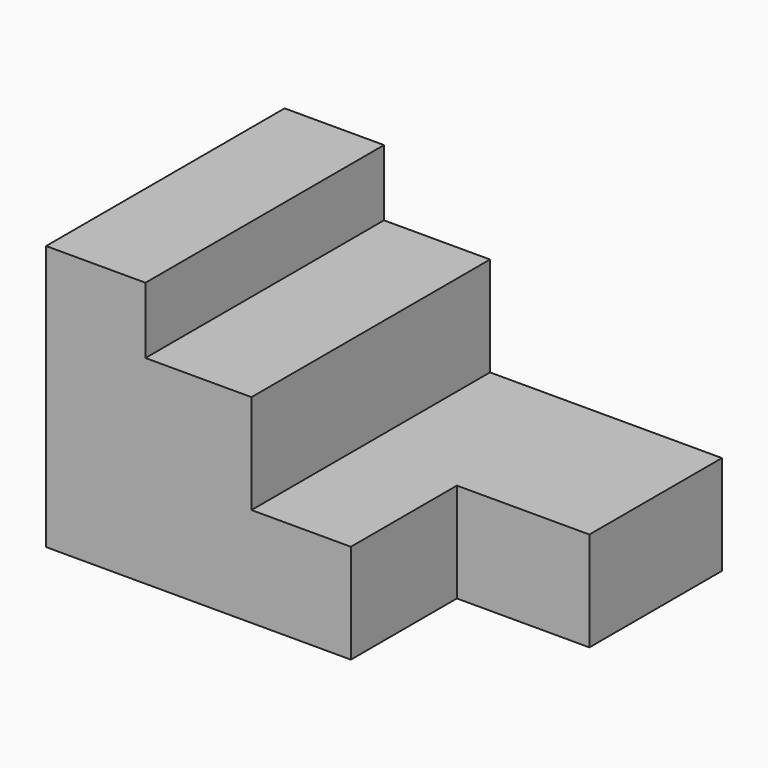
from build123d import *

# Parameters (mm, degrees)
F1_DEPTH = 57.15
F2_W     = 25.4
F2_H     = 25.4
F3_DEPTH = 19.05


with BuildPart() as f1:
    # F0 (on Front) → F1 (new body)
    with BuildSketch(Plane.XZ):
        Polygon((0, 50.8), (0, 0), (83.82, 0), (83.82, 19.05), (39.37, 19.05), (39.37, 38.1), (19.05, 38.1), (19.05, 50.8), align=None)
    extrude(amount=F1_DEPTH)

    # F2 (on face) → F3 (cut, through all)
    with BuildSketch(Plane.XY.offset(19.05)):
        with Locations((71.12, -44.45)):
            Rectangle(F2_W, F2_H)
    extrude(amount=-F3_DEPTH, mode=Mode.SUBTRACT)


solid = f1.part
